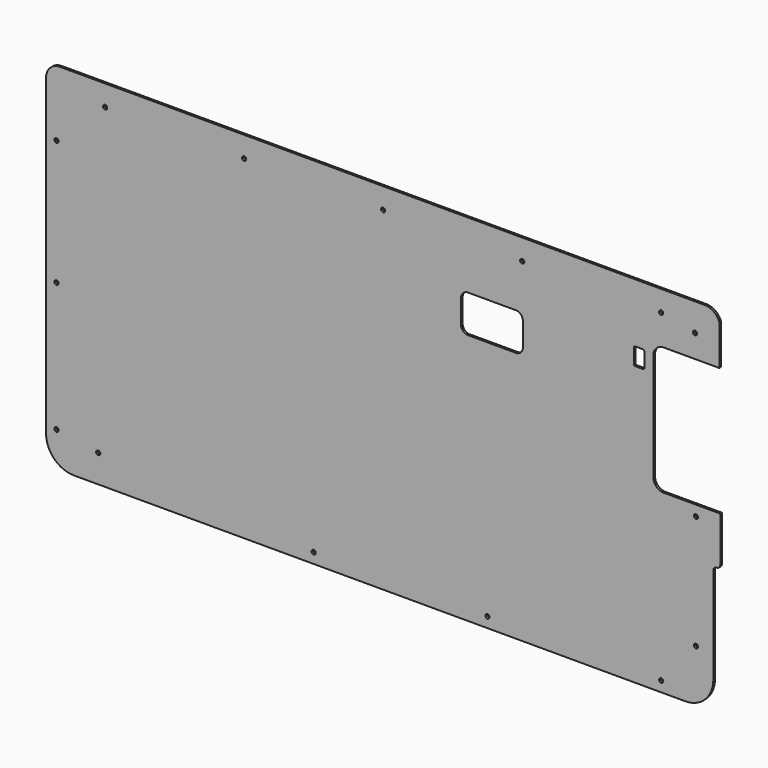
from build123d import *

# Parameters (mm, degrees)
F0_R     = 3
F1_DEPTH = 1.5


with BuildPart() as f1:
    # F0 (on Front) → F1 (new body, symmetric)
    with BuildSketch(Plane.XZ):
        with BuildLine():
            ThreePointArc((483.7124742394, 240.4259464291), (475.4570998666, 251.3503928024), (462.4081345934, 255.5))
            Line((462.4081345934, 255.5), (-465, 255.5))
            ThreePointArc((-465, 255.5), (-479.1421356237, 249.6421356237), (-485, 235.5))
            Line((-485, 235.5), (-485, -215.5))
            ThreePointArc((-485, -215.5), (-473.2842712475, -243.7842712475), (-445, -255.5))
            Line((-445, -255.5), (0, -255.5))
            Line((0, -255.5), (435, -255.5))
            ThreePointArc((435, -255.5), (463.2842712475, -243.7842712475), (475, -215.5))
            Line((475, -215.5), (475, -81.5))
            Line((475, -81.5), (475, -76.5))
            ThreePointArc((475, -76.5), (476.4644660941, -72.9644660941), (480, -71.5))
            ThreePointArc((480, -71.5), (483.5355339059, -70.0355339059), (485, -66.5))
            Line((485, -66.5), (485, -61.5))
            Line((485, -61.5), (485, -1.5))
            Line((485, -1.5), (462.8157010189, -1.5))
            Line((462.8157010189, -1.5), (403.7124742394, -1.5))
            ThreePointArc((403.7124742394, -1.5), (393.1058725216, 2.8933982822), (388.7124742394, 13.5))
            Line((388.7124742394, 13.5), (388.7124742394, 167.5))
            ThreePointArc((388.7124742394, 167.5), (393.1058725216, 178.1066017178), (403.7124742394, 182.5))
            Line((403.7124742394, 182.5), (483.7124742394, 182.5))
            Line((483.7124742394, 182.5), (483.7124742394, 240.4259464291))
        make_face()
        with Locations((-470, -205.5)):
            Circle(F0_R, mode=Mode.SUBTRACT)
        with Locations((-410, -215.5)):
            Circle(F0_R, mode=Mode.SUBTRACT)
        with Locations((-100, -240.5)):
            Circle(F0_R, mode=Mode.SUBTRACT)
        with Locations((-470, -19.5)):
            Circle(F0_R, mode=Mode.SUBTRACT)
        with Locations((150, -240.5)):
            Circle(F0_R, mode=Mode.SUBTRACT)
        with Locations((400, -240.5)):
            Circle(F0_R, mode=Mode.SUBTRACT)
        with Locations((450, -180.5)):
            Circle(F0_R, mode=Mode.SUBTRACT)
        with Locations((450.0357970595, -16.4979236722)):
            Circle(F0_R, mode=Mode.SUBTRACT)
        with Locations((-470, 160.5)):
            Circle(F0_R, mode=Mode.SUBTRACT)
        with Locations((-400, 225.5)):
            Circle(F0_R, mode=Mode.SUBTRACT)
        with Locations((-200, 225.5)):
            Circle(F0_R, mode=Mode.SUBTRACT)
        with BuildLine():
            Line((112, 116.5), (112, 150.5))
            ThreePointArc((112, 150.5), (114.9289321881, 157.5710678119), (122, 160.5))
            Line((122, 160.5), (191, 160.5))
            ThreePointArc((191, 160.5), (198.0710678119, 157.5710678119), (201, 150.5))
            Line((201, 150.5), (201, 116.5))
            ThreePointArc((201, 116.5), (198.0710678119, 109.4289321881), (191, 106.5))
            Line((191, 106.5), (122, 106.5))
            ThreePointArc((122, 106.5), (114.9289321881, 109.4289321881), (112, 116.5))
        make_face(mode=Mode.SUBTRACT)
        with Locations((0, 225.5)):
            Circle(F0_R, mode=Mode.SUBTRACT)
        with Locations((200.0356763601, 225.499600172)):
            Circle(F0_R, mode=Mode.SUBTRACT)
        with BuildLine():
            Line((360.7124742394, 147.5), (360.7124742394, 168.5))
            ThreePointArc((360.7124742394, 168.5), (361.298260677, 169.9142135624), (362.7124742394, 170.5))
            Line((362.7124742394, 170.5), (373.7124742394, 170.5))
            ThreePointArc((373.7124742394, 170.5), (375.1266878018, 169.9142135624), (375.7124742394, 168.5))
            Line((375.7124742394, 168.5), (375.7124742394, 147.5))
            ThreePointArc((375.7124742394, 147.5), (375.1266878018, 146.0857864376), (373.7124742394, 145.5))
            Line((373.7124742394, 145.5), (362.7124742394, 145.5))
            ThreePointArc((362.7124742394, 145.5), (361.298260677, 146.0857864376), (360.7124742394, 147.5))
        make_face(mode=Mode.SUBTRACT)
        with Locations((448.759393394, 215.4916015863)):
            Circle(F0_R, mode=Mode.SUBTRACT)
        with Locations((399.9695941806, 225.4816529751)):
            Circle(F0_R, mode=Mode.SUBTRACT)
    extrude(amount=F1_DEPTH, both=True)


solid = f1.part
